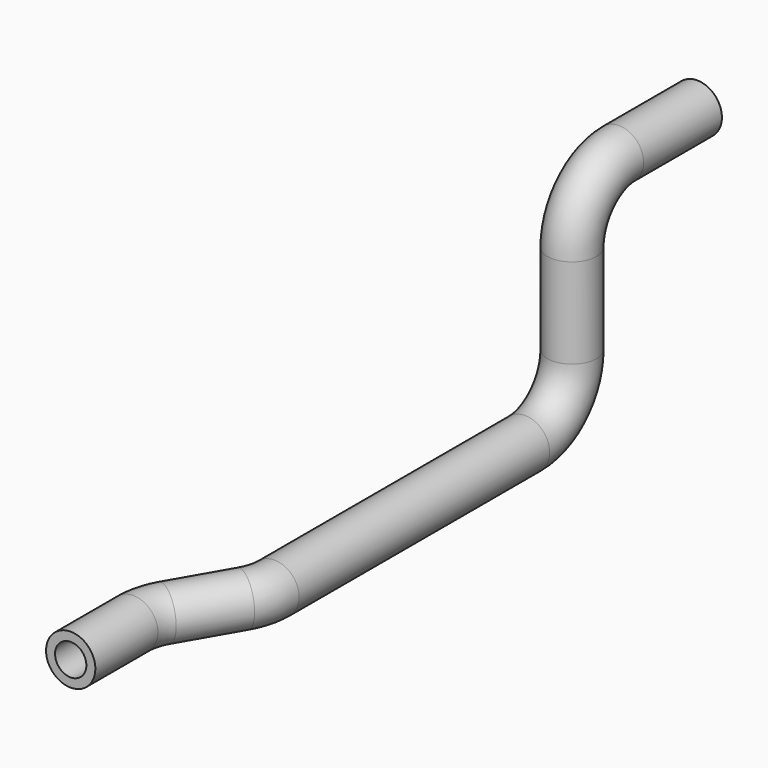
from build123d import *

# Parameters (mm, degrees)
F0_R      = 8.001
F0_R_2    = 5.08
F1_DEPTH  = 31.75
F2_R      = 8.001
F2_R_2    = 5.08
F3_ANGLE  = 90
F4_R      = 8.001
F4_R_2    = 5.08
F5_DEPTH  = 29.21
F6_R      = 8.001
F6_R_2    = 5.08
F7_ANGLE  = 90
F8_R      = 8.001
F8_R_2    = 5.08
F9_DEPTH  = 101.6
F10_R     = 8.001
F10_R_2   = 5.08
F11_ANGLE = 30
F12_R     = 8.001
F12_R_2   = 5.08
F13_DEPTH = 21.336
F14_R     = 8.001
F14_R_2   = 5.08
F15_ANGLE = 30
F16_R     = 8.001
F16_R_2   = 5.08
F17_DEPTH = 25.4


with BuildPart() as f1:
    # F0 (on Front) → F1 (new body)
    with BuildSketch(Plane.XZ):
        Circle(F0_R)
        Circle(F0_R_2, mode=Mode.SUBTRACT)
    extrude(amount=F1_DEPTH)

    # F2 (on face) → F3 (revolve)
    with BuildSketch(Plane.XZ.offset(31.75)):
        Circle(F2_R)
        Circle(F2_R_2, mode=Mode.SUBTRACT)
    revolve(axis=Axis((-0.8979975246, -31.75, -19.05), (1, 0, 0)), revolution_arc=F3_ANGLE)

    # F4 (on face) → F5 (join)
    with BuildSketch(Plane(origin=(0, 0, -19.05), x_dir=(1, 0, 0), z_dir=(0, 0, -1))):
        with Locations((0, 50.8)):
            Circle(F4_R)
        with Locations((0, 50.8)):
            Circle(F4_R_2, mode=Mode.SUBTRACT)
    extrude(amount=F5_DEPTH)

    # F6 (on face) → F7 (revolve)
    with BuildSketch(Plane(origin=(0, 0, -48.26), x_dir=(1, 0, 0), z_dir=(0, 0, -1))):
        with Locations((0, 50.8)):
            Circle(F6_R)
        with Locations((0, 50.8)):
            Circle(F6_R_2, mode=Mode.SUBTRACT)
    revolve(axis=Axis((-4.4729349762, -69.85, -48.26), (-1, 0, 0)), revolution_arc=F7_ANGLE)

    # F8 (on face) → F9 (join)
    with BuildSketch(Plane.XZ.offset(69.85)):
        with Locations((0, -67.31)):
            Circle(F8_R)
        with Locations((0, -67.31)):
            Circle(F8_R_2, mode=Mode.SUBTRACT)
    extrude(amount=F9_DEPTH)

    # F10 (on face) → F11 (revolve)
    with BuildSketch(Plane.XZ.offset(171.45)):
        with Locations((0, -67.31)):
            Circle(F10_R)
        with Locations((0, -67.31)):
            Circle(F10_R_2, mode=Mode.SUBTRACT)
    revolve(axis=Axis((-19.05, -171.45, -65.4150364393), (0, 0, -1)), revolution_arc=F11_ANGLE)

    # F12 (on face) → F13 (join)
    with BuildSketch(Plane(origin=(-79.0025277394, -136.836391971, 0), x_dir=(0.8660254038, -0.5, 0), z_dir=(-0.5, -0.8660254038, 0))):
        with Locations((88.2772160579, -67.31)):
            Circle(F12_R)
        with Locations((88.2772160579, -67.31)):
            Circle(F12_R_2, mode=Mode.SUBTRACT)
    extrude(amount=F13_DEPTH)

    # F14 (on face) → F15 (revolve)
    with BuildSketch(Plane(origin=(-89.6705277394, -155.3139099862, 0), x_dir=(0.8660254038, -0.5, 0), z_dir=(-0.5, -0.8660254038, 0))):
        with Locations((88.2772160579, -67.31)):
            Circle(F14_R)
        with Locations((88.2772160579, -67.31)):
            Circle(F14_R_2, mode=Mode.SUBTRACT)
    revolve(axis=Axis((3.2775678842, -208.9775180151, -65.7491713619), (0, 0, 1)), revolution_arc=F15_ANGLE)

    # F16 (on face) → F17 (join)
    with BuildSketch(Plane.XZ.offset(208.9775180151)):
        with Locations((-15.7724321158, -67.31)):
            Circle(F16_R)
        with Locations((-15.7724321158, -67.31)):
            Circle(F16_R_2, mode=Mode.SUBTRACT)
    extrude(amount=F17_DEPTH)


solid = f1.part
